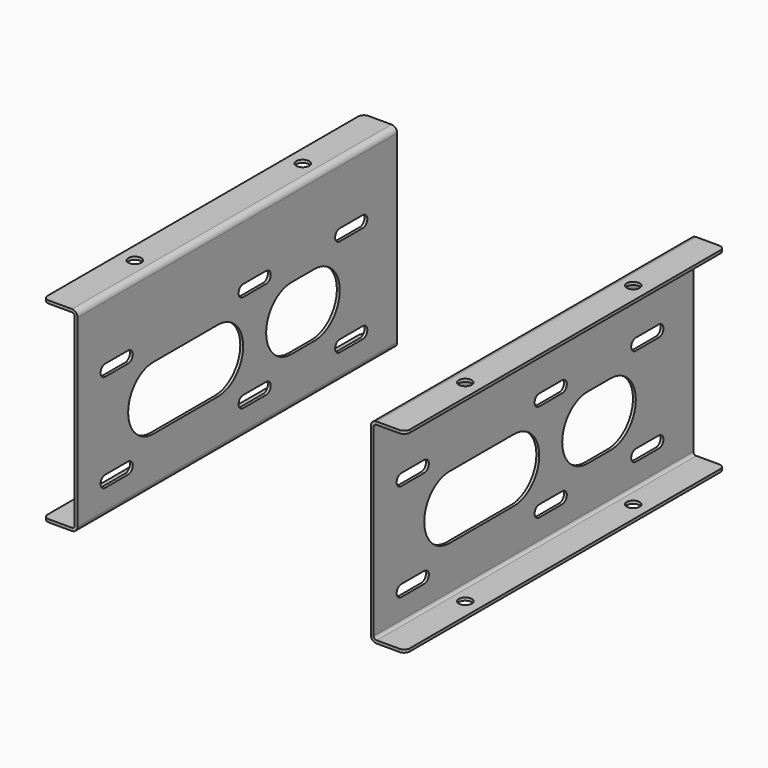
from build123d import *

# Parameters (mm, degrees)
F1_DEPTH  = 139
F3_D      = 4.5
F5_DEPTH  = 25
F6_R      = 2
F7_R      = 2
F8_R      = 2
F9_R      = 2
F11_DEPTH = 25


with BuildPart() as f1:
    # F0 (on Front) → F1 (new body)
    with BuildSketch(Plane.XZ):
        with BuildLine():
            Line((0, 1), (0, 0))
            Line((0, 0), (10, 0))
            ThreePointArc((10, 0), (11.414214, 0.585786), (12, 2))
            Line((12, 2), (12, 66))
            ThreePointArc((12, 66), (11.414214, 67.414214), (10, 68))
            Line((10, 68), (0, 68))
            Line((0, 68), (0, 67))
            Line((0, 67), (10, 67))
            ThreePointArc((10, 67), (10.707107, 66.707107), (11, 66))
            Line((11, 66), (11, 2))
            ThreePointArc((11, 2), (10.707107, 1.292893), (10, 1))
            Line((10, 1), (0, 1))
        make_face()
    extrude(amount=F1_DEPTH)

    # F3 (through all)
    with Locations(Plane.XY.offset(68)):
        with Locations((5.5, -106), (5.5, -33)):
            Hole(F3_D / 2)

    # F4 (on face) → F5 (cut)
    with BuildSketch(Plane(origin=(11, 0, 0), x_dir=(0, -1, 0), z_dir=(-1, 0, 0))):
        with BuildLine():
            Line((25, 13), (15, 13))
            ThreePointArc((15, 13), (13, 11), (15, 9))
            Line((15, 9), (25, 9))
            ThreePointArc((25, 9), (27, 11), (25, 13))
        make_face()
        with BuildLine():
            Line((25, 47), (15, 47))
            ThreePointArc((15, 47), (13, 45), (15, 43))
            Line((15, 43), (25, 43))
            ThreePointArc((25, 43), (27, 45), (25, 47))
        make_face()
        with BuildLine():
            Line((67, 13), (57, 13))
            ThreePointArc((57, 13), (55, 11), (57, 9))
            Line((57, 9), (67, 9))
            ThreePointArc((67, 9), (69, 11), (67, 13))
        make_face()
        with BuildLine():
            Line((67, 47), (57, 47))
            ThreePointArc((57, 47), (55, 45), (57, 43))
            Line((57, 43), (67, 43))
            ThreePointArc((67, 43), (69, 45), (67, 47))
        make_face()
        with BuildLine():
            Line((127, 13), (117, 13))
            ThreePointArc((117, 13), (115, 11), (117, 9))
            Line((117, 9), (127, 9))
            ThreePointArc((127, 9), (129, 11), (127, 13))
        make_face()
        with BuildLine():
            Line((127, 47), (117, 47))
            ThreePointArc((117, 47), (115, 45), (117, 43))
            Line((117, 43), (127, 43))
            ThreePointArc((127, 43), (129, 45), (127, 47))
        make_face()
    extrude(amount=-F5_DEPTH, mode=Mode.SUBTRACT)

    # F6
    f6_edges = [f1.edges().sort_by_distance(p)[0] for p in [
        (0, -139, 67.5),
    ]]
    fillet(f6_edges, radius=F6_R)

    # F7
    f7_edges = [f1.edges().sort_by_distance(p)[0] for p in [
        (0, -139, 0.5),
    ]]
    fillet(f7_edges, radius=F7_R)

    # F8
    f8_edges = [f1.edges().sort_by_distance(p)[0] for p in [
        (0, 0, 0.5),
    ]]
    fillet(f8_edges, radius=F8_R)

    # F9
    f9_edges = [f1.edges().sort_by_distance(p)[0] for p in [
        (0, 0, 67.5),
    ]]
    fillet(f9_edges, radius=F9_R)

    # F10 (on face) → F11 (cut)
    with BuildSketch(Plane(origin=(11, 0, 0), x_dir=(0, -1, 0), z_dir=(-1, 0, 0))):
        with BuildLine():
            Line((46, 39), (36, 39))
            ThreePointArc((36, 39), (25, 28), (36, 17))
            Line((36, 17), (46, 17))
            ThreePointArc((46, 17), (57, 28), (46, 39))
        make_face()
        with BuildLine():
            Line((106, 39), (78, 39))
            ThreePointArc((78, 39), (67, 28), (78, 17))
            Line((78, 17), (106, 17))
            ThreePointArc((106, 17), (117, 28), (106, 39))
        make_face()
    extrude(amount=-F11_DEPTH, mode=Mode.SUBTRACT)


with BuildPart() as f13_1:
    # F13: instance of F1
    add(f1.part.mirror(Plane.YZ.offset(63)))


solid = Compound([f1.part, f13_1.part])
